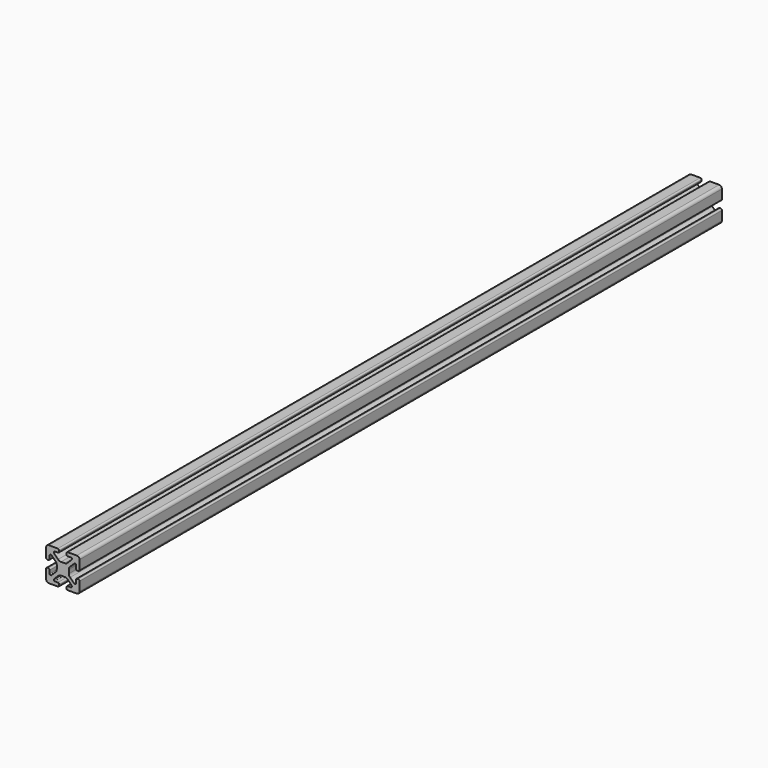
from build123d import *

# Parameters (mm, degrees)
F1_DEPTH = 914.4


with BuildPart() as f1:
    # F0 (on Front) → F1 (new body)
    with BuildSketch(Plane.XZ):
        with BuildLine():
            Line((-5.798256, 19.400802), (-16.034456, 19.400802))
            ThreePointArc((-16.034456, 19.400802), (-18.27952, 18.470866), (-19.209456, 16.225802))
            Line((-19.209456, 16.225802), (-19.209456, 5.989602))
            ThreePointArc((-19.209456, 5.989602), (-18.748207, 4.87605), (-17.634656, 4.414802))
            Line((-17.634656, 4.414802), (-16.720256, 4.414802))
            ThreePointArc((-16.720256, 4.414802), (-15.606704, 4.87605), (-15.145456, 5.989602))
            Line((-15.145456, 5.989602), (-15.145456, 9.748802))
            ThreePointArc((-15.145456, 9.748802), (-14.885073, 10.37742), (-14.256456, 10.637802))
            Line((-14.256456, 10.637802), (-13.688373, 10.637802))
            ThreePointArc((-13.688373, 10.637802), (-13.348168, 10.570131), (-13.059755, 10.37742))
            Line((-13.059755, 10.37742), (-8.420296, 5.737961))
            ThreePointArc((-8.420296, 5.737961), (-7.390669, 4.197015), (-7.029112, 2.379345))
            Line((-7.029112, 2.379345), (-7.029112, -1.67774))
            ThreePointArc((-7.029112, -1.67774), (-7.390669, -3.49541), (-8.420296, -5.036356))
            Line((-8.420296, -5.036356), (-13.059755, -9.675816))
            ThreePointArc((-13.059755, -9.675816), (-13.348168, -9.868527), (-13.688373, -9.936198))
            Line((-13.688373, -9.936198), (-14.256456, -9.936198))
            ThreePointArc((-14.256456, -9.936198), (-14.885073, -9.675816), (-15.145456, -9.047198))
            Line((-15.145456, -9.047198), (-15.145456, -5.287998))
            ThreePointArc((-15.145456, -5.287998), (-15.606704, -4.174446), (-16.720256, -3.713198))
            Line((-16.720256, -3.713198), (-17.634656, -3.713198))
            ThreePointArc((-17.634656, -3.713198), (-18.748207, -4.174446), (-19.209456, -5.287998))
            Line((-19.209456, -5.287998), (-19.209456, -15.524198))
            ThreePointArc((-19.209456, -15.524198), (-18.27952, -17.769262), (-16.034456, -18.699198))
            Line((-16.034456, -18.699198), (-5.798256, -18.699198))
            ThreePointArc((-5.798256, -18.699198), (-4.684704, -18.23795), (-4.223456, -17.124398))
            Line((-4.223456, -17.124398), (-4.223456, -16.209998))
            ThreePointArc((-4.223456, -16.209998), (-4.684704, -15.096446), (-5.798256, -14.635198))
            Line((-5.798256, -14.635198), (-9.557456, -14.635198))
            ThreePointArc((-9.557456, -14.635198), (-10.186073, -14.374816), (-10.446456, -13.746198))
            Line((-10.446456, -13.746198), (-10.446456, -13.178116))
            ThreePointArc((-10.446456, -13.178116), (-10.378784, -12.83791), (-10.186073, -12.549498))
            Line((-10.186073, -12.549498), (-5.546614, -7.910038))
            ThreePointArc((-5.546614, -7.910038), (-4.005668, -6.880411), (-2.187998, -6.518854))
            Line((-2.187998, -6.518854), (1.869087, -6.518854))
            ThreePointArc((1.869087, -6.518854), (3.686757, -6.880411), (5.227703, -7.910038))
            Line((5.227703, -7.910038), (9.867162, -12.549498))
            ThreePointArc((9.867162, -12.549498), (10.059873, -12.83791), (10.127544, -13.178116))
            Line((10.127544, -13.178116), (10.127544, -13.746198))
            ThreePointArc((10.127544, -13.746198), (9.867162, -14.374816), (9.238544, -14.635198))
            Line((9.238544, -14.635198), (5.479344, -14.635198))
            ThreePointArc((5.479344, -14.635198), (4.365793, -15.096446), (3.904544, -16.209998))
            Line((3.904544, -16.209998), (3.904544, -17.124398))
            ThreePointArc((3.904544, -17.124398), (4.365793, -18.23795), (5.479344, -18.699198))
            Line((5.479344, -18.699198), (15.715544, -18.699198))
            ThreePointArc((15.715544, -18.699198), (17.960608, -17.769262), (18.890544, -15.524198))
            Line((18.890544, -15.524198), (18.890544, -5.287998))
            ThreePointArc((18.890544, -5.287998), (18.429296, -4.174446), (17.315744, -3.713198))
            Line((17.315744, -3.713198), (16.401344, -3.713198))
            ThreePointArc((16.401344, -3.713198), (15.287793, -4.174446), (14.826544, -5.287998))
            Line((14.826544, -5.287998), (14.826544, -9.047198))
            ThreePointArc((14.826544, -9.047198), (14.566162, -9.675816), (13.937544, -9.936198))
            Line((13.937544, -9.936198), (13.369462, -9.936198))
            ThreePointArc((13.369462, -9.936198), (13.029257, -9.868527), (12.740844, -9.675816))
            Line((12.740844, -9.675816), (8.101385, -5.036356))
            ThreePointArc((8.101385, -5.036356), (7.071758, -3.49541), (6.710201, -1.67774))
            Line((6.710201, -1.67774), (6.710201, 2.379345))
            ThreePointArc((6.710201, 2.379345), (7.071758, 4.197015), (8.101385, 5.737961))
            Line((8.101385, 5.737961), (12.740844, 10.37742))
            ThreePointArc((12.740844, 10.37742), (13.029257, 10.570131), (13.369462, 10.637802))
            Line((13.369462, 10.637802), (13.937544, 10.637802))
            ThreePointArc((13.937544, 10.637802), (14.566162, 10.37742), (14.826544, 9.748802))
            Line((14.826544, 9.748802), (14.826544, 5.989602))
            ThreePointArc((14.826544, 5.989602), (15.287793, 4.87605), (16.401344, 4.414802))
            Line((16.401344, 4.414802), (17.315744, 4.414802))
            ThreePointArc((17.315744, 4.414802), (18.429296, 4.87605), (18.890544, 5.989602))
            Line((18.890544, 5.989602), (18.890544, 16.225802))
            ThreePointArc((18.890544, 16.225802), (17.960608, 18.470866), (15.715544, 19.400802))
            Line((15.715544, 19.400802), (5.479344, 19.400802))
            ThreePointArc((5.479344, 19.400802), (4.365793, 18.939554), (3.904544, 17.826002))
            Line((3.904544, 17.826002), (3.904544, 16.911602))
            ThreePointArc((3.904544, 16.911602), (4.365793, 15.79805), (5.479344, 15.336802))
            Line((5.479344, 15.336802), (9.238544, 15.336802))
            ThreePointArc((9.238544, 15.336802), (9.867162, 15.07642), (10.127544, 14.447802))
            Line((10.127544, 14.447802), (10.127544, 13.87972))
            ThreePointArc((10.127544, 13.87972), (10.059873, 13.539514), (9.867162, 13.251102))
            Line((9.867162, 13.251102), (5.227703, 8.611643))
            ThreePointArc((5.227703, 8.611643), (3.686757, 7.582015), (1.869087, 7.220458))
            Line((1.869087, 7.220458), (-2.187998, 7.220458))
            ThreePointArc((-2.187998, 7.220458), (-4.005668, 7.582015), (-5.546614, 8.611643))
            Line((-5.546614, 8.611643), (-10.186073, 13.251102))
            ThreePointArc((-10.186073, 13.251102), (-10.378784, 13.539514), (-10.446456, 13.87972))
            Line((-10.446456, 13.87972), (-10.446456, 14.447802))
            ThreePointArc((-10.446456, 14.447802), (-10.186073, 15.07642), (-9.557456, 15.336802))
            Line((-9.557456, 15.336802), (-5.798256, 15.336802))
            ThreePointArc((-5.798256, 15.336802), (-4.684704, 15.79805), (-4.223456, 16.911602))
            Line((-4.223456, 16.911602), (-4.223456, 17.826002))
            ThreePointArc((-4.223456, 17.826002), (-4.684704, 18.939554), (-5.798256, 19.400802))
        make_face()
    extrude(amount=-F1_DEPTH)


solid = f1.part
